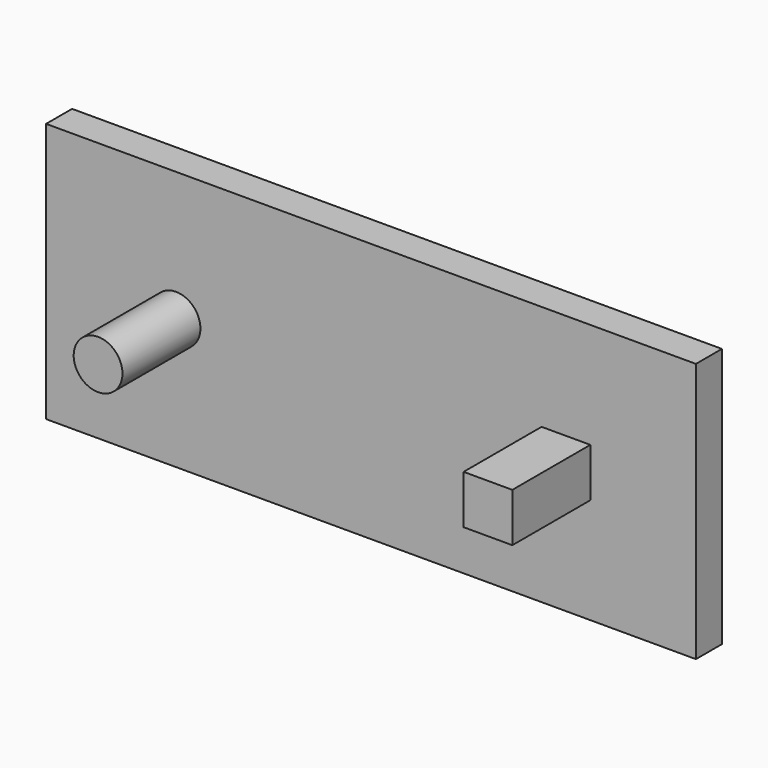
from build123d import *

# Parameters (mm, degrees)
F0_W     = 127
F0_H     = 50.8
F0_R     = 4.7625
F0_W_2   = 9.525
F0_H_2   = 9.525
F1_DEPTH = 6.35
F2_DEPTH = 19.05


with BuildPart() as f1:
    # F0 (on Front) → F1 (new body)
    with BuildSketch(Plane.XZ):
        Rectangle(F0_W, F0_H)
        with Locations((-38.1, 0)):
            Circle(F0_R, mode=Mode.SUBTRACT)
        with Locations((38.1, 0)):
            Rectangle(F0_W_2, F0_H_2, mode=Mode.SUBTRACT)
        with Locations((38.1, 0)):
            Rectangle(F0_W_2, F0_H_2)
        with Locations((-38.1, 0)):
            Circle(F0_R)
    extrude(amount=-F1_DEPTH)

    # F0 (on Front) → F2 (join)
    with BuildSketch(Plane.XZ):
        with Locations((38.1, 0)):
            Rectangle(F0_W_2, F0_H_2)
        with Locations((-38.1, 0)):
            Circle(F0_R)
    extrude(amount=F2_DEPTH)


solid = f1.part
